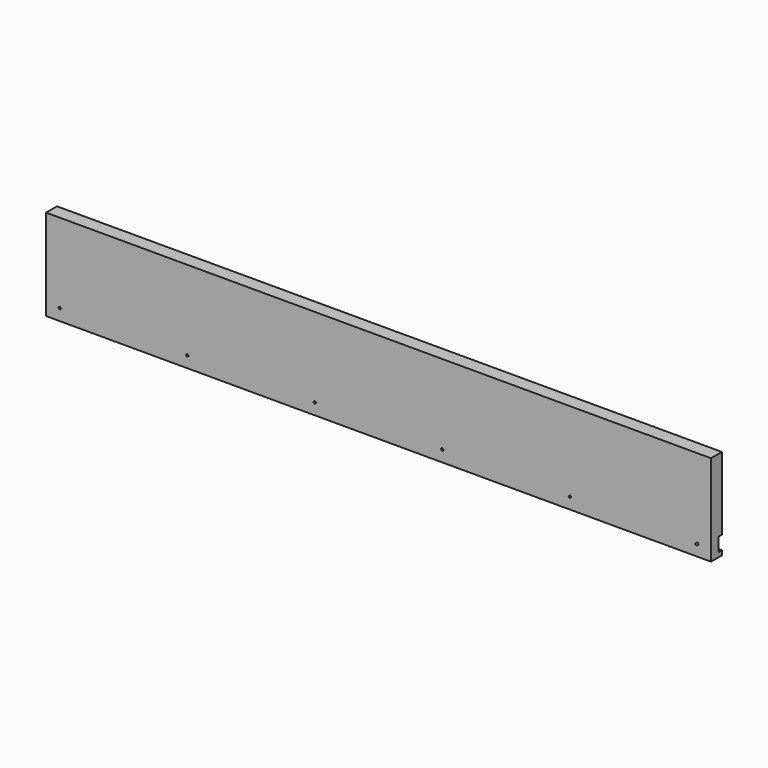
from build123d import *

# Parameters (mm, degrees)
F0_W     = 927.1
F0_H     = 127
F1_DEPTH = 19.05
F2_W     = 927.1
F2_H     = 19.05
F3_DEPTH = 6.35
F4_R     = 1.5875
F5_DEPTH = 19.051


with BuildPart() as f1:
    # F0 (on Front) → F1 (new body)
    with BuildSketch(Plane.XZ):
        with Locations((463.55, -63.5)):
            Rectangle(F0_W, F0_H)
    extrude(amount=F1_DEPTH)

    # F2 (on Front) → F3 (cut)
    with BuildSketch(Plane.XZ):
        with Locations((463.55, -111.125)):
            Rectangle(F2_W, F2_H)
    extrude(amount=F3_DEPTH, mode=Mode.SUBTRACT)

    # F4 (on Front) → F5 (cut, through all)
    with BuildSketch(Plane.XZ):
        with BuildLine():
            ThreePointArc((908.3203580187, -112.6893090461), (909.264361891, -112.1474878717), (909.6375, -111.125))
            ThreePointArc((909.6375, -111.125), (908.3283195264, -109.5620878172), (906.5600896174, -110.5769823892))
            ThreePointArc((906.5600896174, -110.5769823892), (907.8529355077, -110.9269295443), (908.417947636, -112.1412914353))
            ThreePointArc((908.417947636, -112.1412914353), (908.3933598189, -112.4196109618), (908.3203580187, -112.6893090461))
        make_face()
        with BuildLine():
            ThreePointArc((908.417947636, -112.1412914353), (907.8529355077, -110.9269295443), (906.5600896174, -110.5769823892))
            ThreePointArc((906.5600896174, -110.5769823892), (906.830447636, -112.1412914353), (908.3203580187, -112.6893090461))
            ThreePointArc((908.3203580187, -112.6893090461), (908.3933598189, -112.4196109618), (908.417947636, -112.1412914353))
        make_face()
        with BuildLine():
            ThreePointArc((908.3203580187, -112.6893090461), (906.830447636, -112.1412914353), (906.5600896174, -110.5769823892))
            ThreePointArc((906.5600896174, -110.5769823892), (905.6108952721, -113.1575828707), (908.3203580187, -112.6893090461))
        make_face()
        with Locations((730.25, -111.125)):
            Circle(F4_R)
        with Locations((552.45, -111.125)):
            Circle(F4_R)
        with Locations((374.65, -111.125)):
            Circle(F4_R)
        with Locations((196.85, -111.125)):
            Circle(F4_R)
        with Locations((19.05, -111.125)):
            Circle(F4_R)
    extrude(amount=F5_DEPTH, mode=Mode.SUBTRACT)


solid = f1.part
